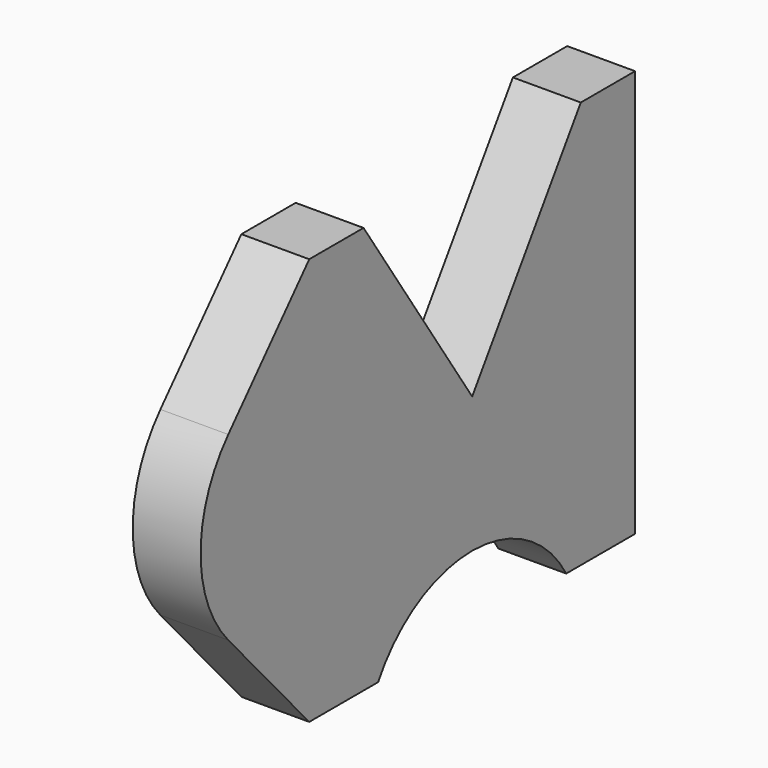
from build123d import *

# Parameters (mm, degrees)
F1_DEPTH = 254


with BuildPart() as f1:
    # F0 (on Right) → F1 (new body)
    with BuildSketch(Plane.YZ):
        with BuildLine():
            Line((508, 762), (0, 0))
            Line((0, 0), (-508, 762))
            Line((-508, 762), (-762, 762))
            Line((-762, 762), (-1140.640844, 338.666667))
            ThreePointArc((-1140.640844, 338.666667), (-1270, 0), (-1140.640844, -338.666667))
            Line((-1140.640844, -338.666667), (-762, -762))
            Line((-762, -762), (-439.940905, -762))
            ThreePointArc((-439.940905, -762), (0, -508), (439.940905, -762))
            Line((439.940905, -762), (762, -762))
            Line((762, -762), (762, 762))
            Line((762, 762), (508, 762))
        make_face()
    extrude(amount=F1_DEPTH)


solid = f1.part
